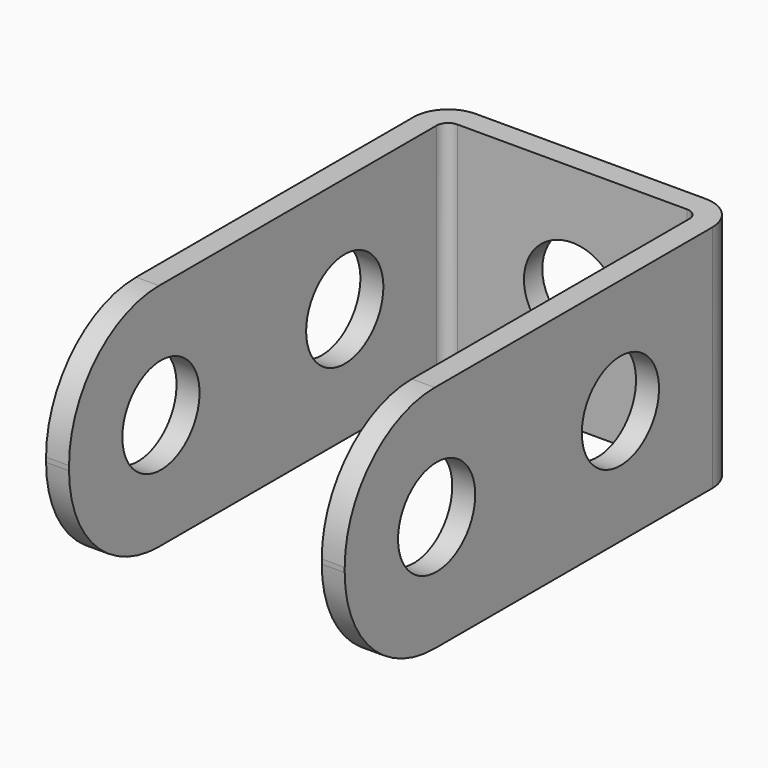
from build123d import *

# Parameters (mm, degrees)
PAD_DEPTH       = 10
SKETCH002_R     = 2.1
POCKET_DEPTH    = 5
SKETCH001_R     = 2.1
POCKET001_DEPTH = 13.001
FILLET_R        = 4.9


with BuildPart() as part:
    # Sketch → Pad (new body)
    with BuildSketch(Plane.XY):
        with BuildLine():
            Line((0, -10), (0, 10))
            ThreePointArc((1.5, 11.5), (0.43934, 11.06066), (0, 10))
            Line((1.5, 11.5), (11.5, 11.5))
            ThreePointArc((13, 10), (12.56066, 11.06066), (11.5, 11.5))
            Line((13, 10), (13, -9.999991))
            Line((12, -9.999991), (13, -9.999991))
            Line((12, 10.000009), (12, -9.999991))
            ThreePointArc((12, 10.000009), (11.85355, 10.353556), (11.500001, 10.5))
            Line((1.5, 10.5), (11.500001, 10.5))
            ThreePointArc((1.5, 10.5), (1.146447, 10.353553), (1, 10))
            Line((1, -10), (1, 10))
            Line((0, -10), (1, -10))
        make_face()
    extrude(amount=PAD_DEPTH)

    # Sketch002 → Pocket (cut)
    with BuildSketch(Plane(origin=(0, 11.5, 0), x_dir=(-1, 0, 0), z_dir=(0, 1, 0))):
        with Locations((-6.5, 5)):
            Circle(SKETCH002_R)
    extrude(amount=-POCKET_DEPTH, mode=Mode.SUBTRACT)

    # Sketch001 → Pocket001 (cut, through all)
    with BuildSketch(Plane(origin=(0, 0, 0), x_dir=(0, -1, 0), z_dir=(-1, 0, 0))):
        with Locations((-5, 5)):
            Circle(SKETCH001_R)
        with Locations((5, 5)):
            Circle(SKETCH001_R)
    extrude(amount=-POCKET001_DEPTH, mode=Mode.SUBTRACT)

    # Fillet
    fillet_edges = [part.edges().sort_by_distance(p)[0] for p in [
        (0.5, -10, 10),
        (12.5, -9.999991, 10),
        (12.5, -9.999991, 0),
        (0.5, -10, 0),
    ]]
    fillet(fillet_edges, radius=FILLET_R)


solid = part.part
